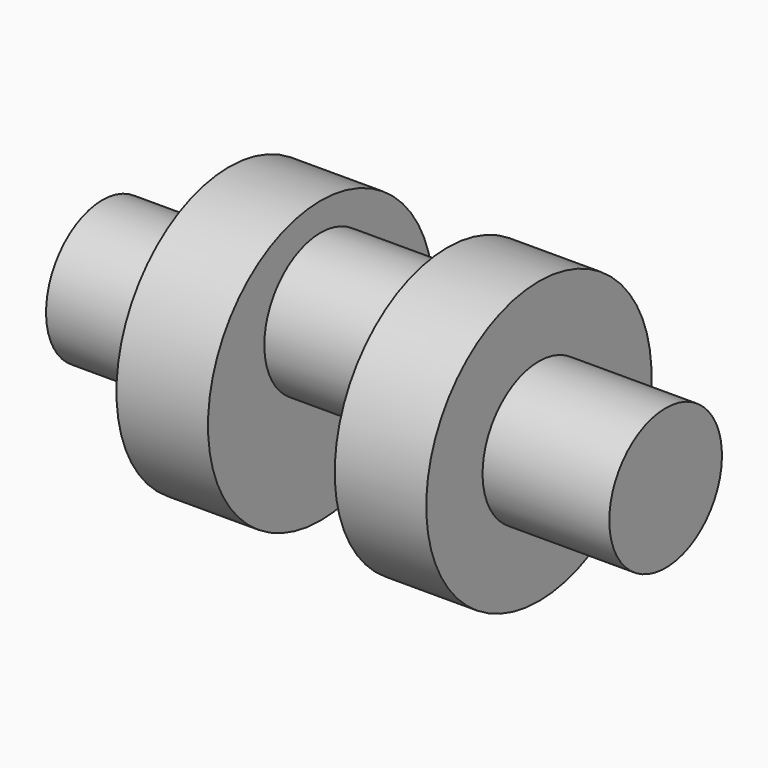
from build123d import *

# Parameters (mm, degrees)
F0_W = 18
F0_H = 10


with BuildPart() as f1:
    # F0 (on Front) → F1 (revolve)
    with BuildSketch(Plane.XZ):
        with Locations((-46.4717, 5)):
            Rectangle(F0_W, F0_H)
        Polygon((-37.4717, 10), (-37.4717, 0), (-24.4717, 0), (-24.4717, 6), (-24.4717, 16), (-24.4717, 20), (-37.4717, 20), align=None)
        Polygon((-6.4717, 6), (-6.4717, 0), (6.5283, 0), (6.5283, 10), (6.5283, 20), (-6.4717, 20), (-6.4717, 16), align=None)
        with Locations((15.5283, 5)):
            Rectangle(F0_W, F0_H)
    revolve(axis=Axis((-0.66038, 0, 0), (1, 0, 0)))

    # F0 (on Front) → F2 (revolve)
    with BuildSketch(Plane.XZ):
        with Locations((-15.4717, 11)):
            Rectangle(F0_W, F0_H)
    revolve(axis=Axis((-15.4717, 0, 6), (-1, 0, 0)))


solid = f1.part
